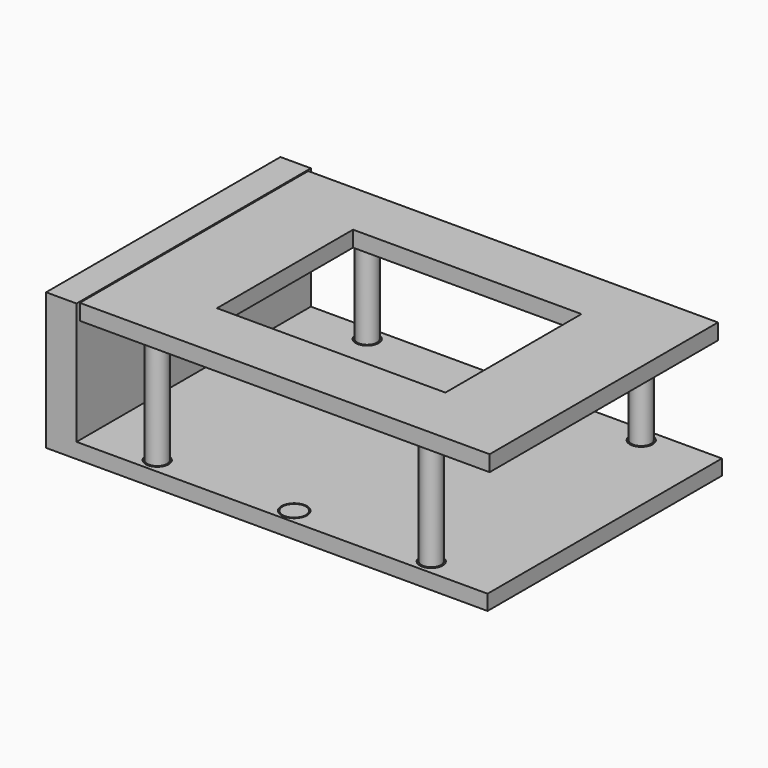
from build123d import *

# Parameters (mm, degrees)
F0_R      = 2.38125
F0_R_2    = 2.573949
F1_DEPTH  = 3.175
F2_R      = 2.058844
F3_DEPTH  = 25.4
F4_R      = 2.050606
F5_DEPTH  = 25.4
F6_R      = 2.071764
F7_DEPTH  = 25.4
F8_R      = 2.057464
F9_DEPTH  = 25.4
F10_R     = 2.089281
F11_DEPTH = 3.175
F12_R     = 2.408989
F13_DEPTH = 3.2512
F14_W     = 6.35
F14_H     = 61.089784
F15_DEPTH = 25.4
F17_W     = 85.455172
F17_H     = 59.528292
F17_W_2   = 47.639392
F17_H_2   = 35.47126
F18_DEPTH = 3.302


with BuildPart() as f1:
    # F0 (on Top) → F1 (new body)
    with BuildSketch(Plane.XY):
        with BuildLine():
            Line((42.8625, -30.544892), (42.8625, -24.194892))
            Line((42.8625, -24.194892), (4.207531, -24.194892))
            Line((4.207531, -24.194892), (0, -24.194892))
            Line((0, -24.194892), (0, -24.712245))
            ThreePointArc((0, -24.712245), (1.87924, -25.490652), (2.657647, -27.369892))
            ThreePointArc((2.657647, -27.369892), (1.87924, -29.249132), (0, -30.027538))
            Line((0, -30.027538), (0, -30.544892))
            Line((0, -30.544892), (4.207531, -30.544892))
            Line((4.207531, -30.544892), (42.8625, -30.544892))
        make_face()
        with Locations((28.575, -27.369892)):
            Circle(F0_R, mode=Mode.SUBTRACT)
        Polygon((4.207531, -24.194892), (42.8625, -24.194892), (42.8625, 24.194892), (28.575, 24.194892), (-42.8625, 24.194892), (-42.8625, 0), (-42.8625, -24.194892), (-4.207531, -24.194892), (0, -24.194892), align=None)
        with BuildLine():
            ThreePointArc((30.95625, 27.369892), (26.891202, 29.05369), (28.575, 24.988642))
            ThreePointArc((28.575, 24.988642), (30.258798, 25.686094), (30.95625, 27.369892))
        make_face()
        Polygon((28.575, 24.194892), (42.8625, 24.194892), (42.8625, 30.544892), (0, 30.544892), (-49.2125, 30.544892), (-49.2125, 0), (-42.8625, 0), (-42.8625, 24.194892), align=None)
        with Locations((-28.575, 27.369892)):
            Circle(F0_R, mode=Mode.SUBTRACT)
        with Locations((0, 27.369892)):
            Circle(F0_R_2, mode=Mode.SUBTRACT)
        with BuildLine():
            ThreePointArc((30.95625, 27.369892), (30.258798, 25.686094), (28.575, 24.988642))
            ThreePointArc((28.575, 24.988642), (26.891202, 29.05369), (30.95625, 27.369892))
        make_face(mode=Mode.SUBTRACT)
        with BuildLine():
            Line((0, -24.712245), (0, -24.194892))
            Line((0, -24.194892), (-4.207531, -24.194892))
            Line((-4.207531, -24.194892), (-42.8625, -24.194892))
            Line((-42.8625, -24.194892), (-42.8625, -30.544892))
            Line((-42.8625, -30.544892), (-4.207531, -30.544892))
            Line((-4.207531, -30.544892), (0, -30.544892))
            Line((0, -30.544892), (0, -30.027538))
            ThreePointArc((0, -30.027538), (-2.657647, -27.369892), (0, -24.712245))
        make_face()
        with Locations((-28.575, -27.369892)):
            Circle(F0_R, mode=Mode.SUBTRACT)
        Polygon((-42.8625, -30.544892), (-42.8625, -24.194892), (-42.8625, 0), (-49.2125, 0), (-49.2125, -30.544892), align=None)
        Polygon((-42.8625, -30.544892), (-42.8625, -24.194892), (-42.8625, 0), (-49.2125, 0), (-49.2125, -30.544892), align=None)
    extrude(amount=F1_DEPTH)

    # F14 (on face) → F15 (join)
    with BuildSketch(Plane.XY.offset(3.175)):
        with Locations((-46.0375, 0)):
            Rectangle(F14_W, F14_H)
    extrude(amount=F15_DEPTH)


with BuildPart() as f3:
    # F2 (on face) → F3 (new body)
    with BuildSketch(Plane.XY.offset(3.175)):
        with Locations((-28.575, 27.369892)):
            Circle(F2_R)
    extrude(amount=F3_DEPTH)


with BuildPart() as f5:
    # F4 (on face) → F5 (new body)
    with BuildSketch(Plane.XY.offset(3.175)):
        with Locations((28.575, 27.369892)):
            Circle(F4_R)
    extrude(amount=F5_DEPTH)


with BuildPart() as f7:
    # F6 (on face) → F7 (new body)
    with BuildSketch(Plane.XY.offset(3.175)):
        with Locations((-28.575, -27.369892)):
            Circle(F6_R)
    extrude(amount=F7_DEPTH)


with BuildPart() as f9:
    # F8 (on face) → F9 (new body)
    with BuildSketch(Plane.XY.offset(3.175)):
        with Locations((28.575, -27.369892)):
            Circle(F8_R)
    extrude(amount=F9_DEPTH)


with BuildPart() as f11:
    # F10 (on face) → F11 (new body)
    with BuildSketch(Plane.XY.offset(3.175)):
        with Locations((0, 27.369892)):
            Circle(F10_R)
    extrude(amount=-F11_DEPTH)


with BuildPart() as f13:
    # F12 (on face) → F13 (new body)
    with BuildSketch(Plane.XY.offset(3.175)):
        with Locations((0, -27.369892)):
            Circle(F12_R)
    extrude(amount=-F13_DEPTH)


with BuildPart() as f18:
    # F17 (on offset) → F18 (new body)
    with BuildSketch(Plane.XY.offset(25.4)):
        with Locations((0.295501, -0.453204)):
            Rectangle(F17_W, F17_H)
        Rectangle(F17_W_2, F17_H_2, mode=Mode.SUBTRACT)
    extrude(amount=F18_DEPTH)


solid = Compound([f1.part, f3.part, f5.part, f7.part, f9.part, f11.part, f13.part, f18.part])
